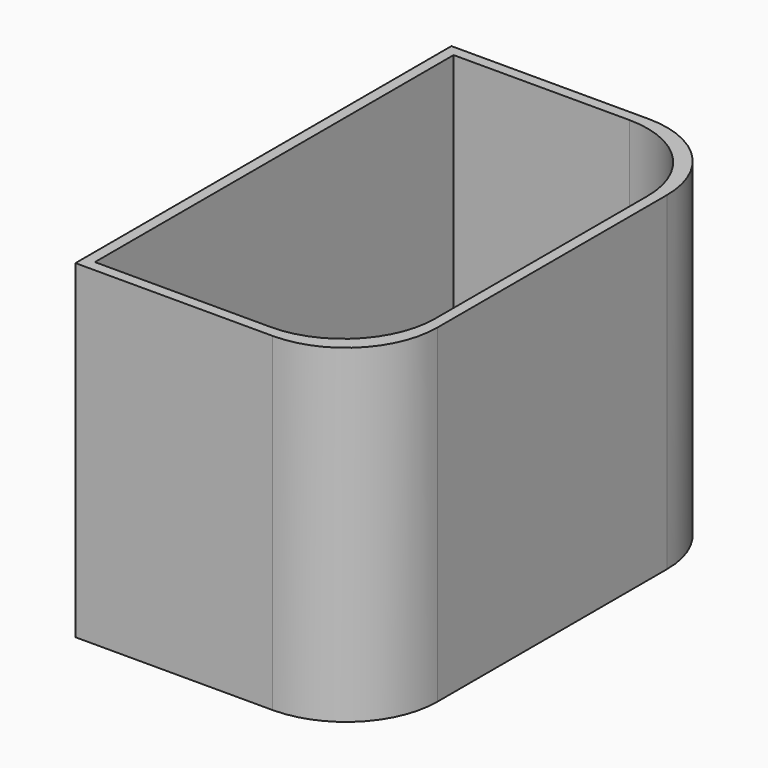
from build123d import *

# Parameters (mm, degrees)
F0_W     = 40.084
F0_H     = 45.72
F1_DEPTH = 32.615
F2_T     = -1.5
F3_R     = 12.7
F5_DEPTH = 25.4


with BuildPart() as f1:
    # F0 (on Front) → F1 (new body, symmetric)
    with BuildSketch(Plane.XZ):
        with Locations((20.042, -22.86)):
            Rectangle(F0_W, F0_H)
    extrude(amount=F1_DEPTH, both=True)

    # F2
    f2_openings = [f1.faces().sort_by_distance(p)[0] for p in [
        (20.042, 0, 0),
    ]]
    offset(amount=F2_T, openings=f2_openings)

    # F3
    f3_edges = [f1.edges().sort_by_distance(p)[0] for p in [
        (38.584, 31.115, -22.11),
        (38.584, -31.115, -22.11),
        (40.084, -32.615, -22.86),
        (40.084, 32.615, -22.86),
    ]]
    fillet(f3_edges, radius=F3_R)

    # F4 (on face) → F5 (cut)
    with BuildSketch(Plane.XY.offset(-44.22)):
        with BuildLine():
            Line((11.5, -21.115), (25.884, -21.115))
            ThreePointArc((25.884, -21.115), (27.7931883092, -20.3241883092), (28.584, -18.415))
            Line((28.584, -18.415), (28.584, 18.415))
            ThreePointArc((28.584, 18.415), (27.7931883092, 20.3241883092), (25.884, 21.115))
            Line((25.884, 21.115), (11.5, 21.115))
            Line((11.5, 21.115), (11.5, -21.115))
        make_face()
    extrude(amount=-F5_DEPTH, mode=Mode.SUBTRACT)


solid = f1.part
